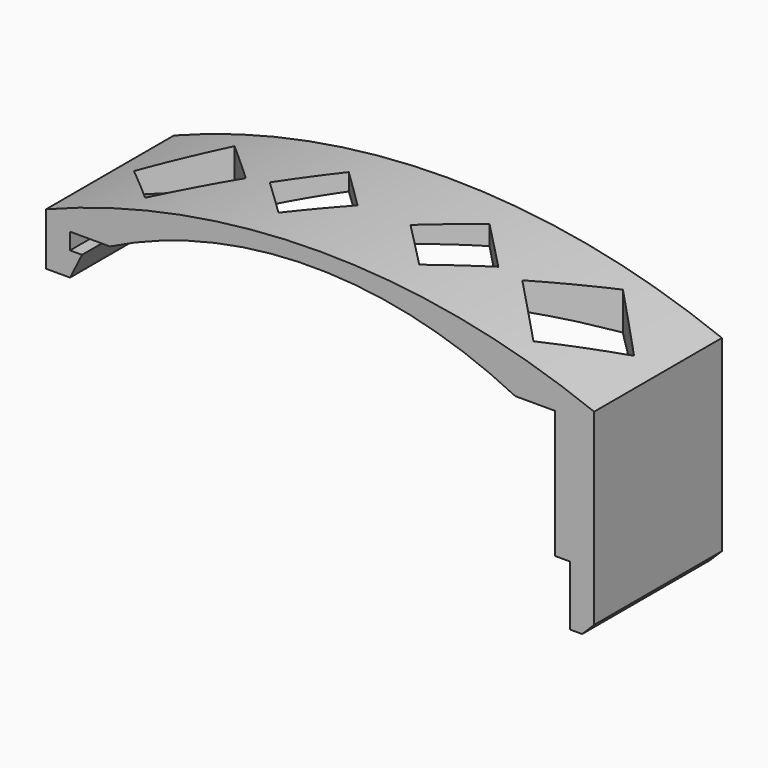
from build123d import *

# Parameters (mm, degrees)
F2_DEPTH = 8
F4_DEPTH = 6.401
F5_SIZE  = 1.2


with BuildPart() as f2:
    # F1 (on Front) → F2 (new body, symmetric)
    with BuildSketch(Plane.XZ):
        with BuildLine():
            Line((-2.4, -4.05), (0, -4.05))
            Line((0, -4.05), (1.2, -1.65))
            Line((1.2, -1.65), (0, -1.65))
            Line((0, -1.65), (0, 0))
            Line((0, 0), (4, 0))
            ThreePointArc((4, 0), (24.3, 4.8), (44.6, 0))
            Line((44.6, 0), (48.6, 0))
            Line((48.6, 0), (48.6, -12.8))
            Line((48.6, -12.8), (50.1, -12.8))
            Line((50.1, -12.8), (50.1, -18.8))
            Line((50.1, -18.8), (52.5, -18.8))
            Line((52.5, -18.8), (52.5, 1.2))
            ThreePointArc((52.5, 1.2), (25.05, 6.4), (-2.4, 1.2))
            Line((-2.4, 1.2), (-2.4, -4.05))
        make_face()
    extrude(amount=F2_DEPTH, both=True)

    # F3 (on Top) → F4 (cut, through all)
    with BuildSketch(Plane.XY):
        Polygon((5.6, 5.6), (0, 0), (5.6, -5.6), (11.2, 0), align=None)
        Polygon((44.5, 5.6), (38.9, 0), (44.5, -5.6), (50.1, 0), align=None)
        Polygon((36.5, 0), (32.1, 4.4), (27.7, 0), (32.1, -4.4), align=None)
        Polygon((22.4, 0), (18, 4.4), (13.6, 0), (18, -4.4), align=None)
    extrude(amount=F4_DEPTH, mode=Mode.SUBTRACT)

    # F5
    f5_edges = [f2.edges().sort_by_distance(p)[0] for p in [
        (52.5, 0, -18.8),
    ]]
    chamfer(f5_edges, length=F5_SIZE)


solid = f2.part
